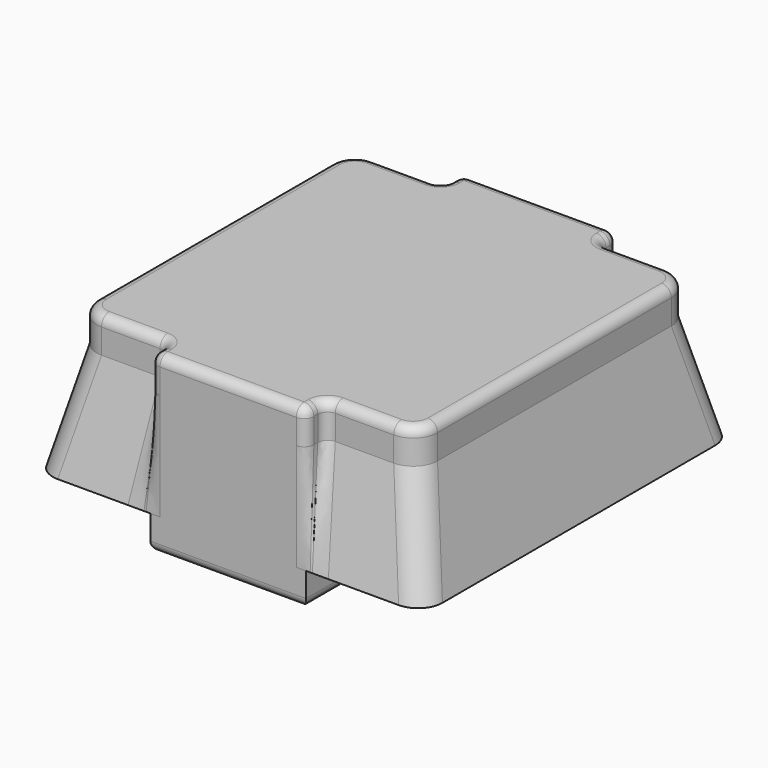
from build123d import *

# Parameters (mm, degrees)
SKETCH003_W  = 1.6
SKETCH003_H  = 4
PAD002_DEPTH = 0.35
PAD003_DEPTH = 0.355
FILLET002_R  = 0.1
FILLET003_R  = 0.1


with BuildPart() as part:
    # Sketch003 → Pad002 (new body)
    with BuildSketch(Plane.XY):
        Rectangle(SKETCH003_W, SKETCH003_H)
    extrude(amount=PAD002_DEPTH)

    # Sketch004 (on Face6 of Pad002) → AdditiveLoft section 0
    with BuildSketch(Plane.XY.offset(0.35)):
        with BuildLine():
            Line((-1.75, 2), (1.75, 2))
            ThreePointArc((2, 1.75), (1.926777, 1.926777), (1.75, 2))
            Line((2, 1.75), (2, -1.75))
            ThreePointArc((1.75, -2), (1.926777, -1.926777), (2, -1.75))
            Line((1.75, -2), (-1.75, -2))
            ThreePointArc((-2, -1.75), (-1.926777, -1.926777), (-1.75, -2))
            Line((-2, -1.75), (-2, 1.75))
            ThreePointArc((-1.75, 2), (-1.926777, 1.926777), (-2, 1.75))
        make_face()
    # Sketch005 (on Face6 of Pad002) → AdditiveLoft section 1
    with BuildSketch(Plane.XY.offset(1.45)):
        with BuildLine():
            Line((1.75, 1.5), (1.75, -1.5))
            ThreePointArc((1.5, -1.75), (1.676777, -1.676777), (1.75, -1.5))
            Line((0.9, -1.75), (1.5, -1.75))
            ThreePointArc((0.9, -1.75), (0.829289, -1.779289), (0.8, -1.85))
            Line((0.8, -1.9), (0.8, -1.85))
            ThreePointArc((0.7, -2), (0.770711, -1.970711), (0.8, -1.9))
            Line((-0.7, -2), (0.7, -2))
            ThreePointArc((-0.8, -1.9), (-0.770711, -1.970711), (-0.7, -2))
            Line((-0.8, -1.85), (-0.8, -1.9))
            ThreePointArc((-0.8, -1.85), (-0.829289, -1.779289), (-0.9, -1.75))
            Line((-1.5, -1.75), (-0.9, -1.75))
            ThreePointArc((-1.75, -1.5), (-1.676777, -1.676777), (-1.5, -1.75))
            Line((-1.75, -1.5), (-1.75, 1.5))
            ThreePointArc((-1.5, 1.75), (-1.676777, 1.676777), (-1.75, 1.5))
            Line((-1.5, 1.75), (-0.9, 1.75))
            ThreePointArc((-0.9, 1.75), (-0.829289, 1.779289), (-0.8, 1.85))
            Line((-0.8, 1.85), (-0.8, 1.9))
            ThreePointArc((-0.7, 2), (-0.770711, 1.970711), (-0.8, 1.9))
            Line((-0.7, 2), (0.7, 2))
            ThreePointArc((0.8, 1.9), (0.770711, 1.970711), (0.7, 2))
            Line((0.8, 1.9), (0.8, 1.85))
            ThreePointArc((0.8, 1.85), (0.829289, 1.779289), (0.9, 1.75))
            Line((0.9, 1.75), (1.5, 1.75))
            ThreePointArc((1.75, 1.5), (1.676777, 1.676777), (1.5, 1.75))
        make_face()
    loft()

    # Sketch005 (on Face6 of Pad002) → Pad003 (join)
    with BuildSketch(Plane.XY.offset(1.45)):
        with BuildLine():
            Line((1.75, 1.5), (1.75, -1.5))
            ThreePointArc((1.5, -1.75), (1.676777, -1.676777), (1.75, -1.5))
            Line((0.9, -1.75), (1.5, -1.75))
            ThreePointArc((0.9, -1.75), (0.829289, -1.779289), (0.8, -1.85))
            Line((0.8, -1.9), (0.8, -1.85))
            ThreePointArc((0.7, -2), (0.770711, -1.970711), (0.8, -1.9))
            Line((-0.7, -2), (0.7, -2))
            ThreePointArc((-0.8, -1.9), (-0.770711, -1.970711), (-0.7, -2))
            Line((-0.8, -1.85), (-0.8, -1.9))
            ThreePointArc((-0.8, -1.85), (-0.829289, -1.779289), (-0.9, -1.75))
            Line((-1.5, -1.75), (-0.9, -1.75))
            ThreePointArc((-1.75, -1.5), (-1.676777, -1.676777), (-1.5, -1.75))
            Line((-1.75, -1.5), (-1.75, 1.5))
            ThreePointArc((-1.5, 1.75), (-1.676777, 1.676777), (-1.75, 1.5))
            Line((-1.5, 1.75), (-0.9, 1.75))
            ThreePointArc((-0.9, 1.75), (-0.829289, 1.779289), (-0.8, 1.85))
            Line((-0.8, 1.85), (-0.8, 1.9))
            ThreePointArc((-0.7, 2), (-0.770711, 1.970711), (-0.8, 1.9))
            Line((-0.7, 2), (0.7, 2))
            ThreePointArc((0.8, 1.9), (0.770711, 1.970711), (0.7, 2))
            Line((0.8, 1.9), (0.8, 1.85))
            ThreePointArc((0.8, 1.85), (0.829289, 1.779289), (0.9, 1.75))
            Line((0.9, 1.75), (1.5, 1.75))
            ThreePointArc((1.75, 1.5), (1.676777, 1.676777), (1.5, 1.75))
        make_face()
    extrude(amount=PAD003_DEPTH)

    # Fillet002
    fillet002_edges = [part.edges().sort_by_distance(p)[0] for p in [
        (0, 2, 0),
        (0.8, 0, 0),
        (0, -2, 0),
        (-0.8, 0, 0),
    ]]
    fillet(fillet002_edges, radius=FILLET002_R)

    # Fillet003
    fillet003_edges = [part.edges().sort_by_distance(p)[0] for p in [
        (0.8, 1.875, 1.805),
        (0.829289, 1.779289, 1.805),
        (1.2, 1.75, 1.805),
        (1.676777, 1.676777, 1.805),
        (1.75, 0, 1.805),
        (1.676777, -1.676777, 1.805),
        (1.2, -1.75, 1.805),
        (0.829289, -1.779289, 1.805),
        (0.8, -1.875, 1.805),
        (0.770711, -1.970711, 1.805),
        (0, -2, 1.805),
        (-0.770711, -1.970711, 1.805),
        (-0.8, -1.875, 1.805),
        (-0.829289, -1.779289, 1.805),
        (-1.2, -1.75, 1.805),
        (-1.676777, -1.676777, 1.805),
        (-1.75, 0, 1.805),
        (-1.676777, 1.676777, 1.805),
        (-1.2, 1.75, 1.805),
        (-0.829289, 1.779289, 1.805),
        (-0.8, 1.875, 1.805),
        (-0.770711, 1.970711, 1.805),
        (0, 2, 1.805),
        (0.770711, 1.970711, 1.805),
    ]]
    fillet(fillet003_edges, radius=FILLET003_R)


solid = part.part
